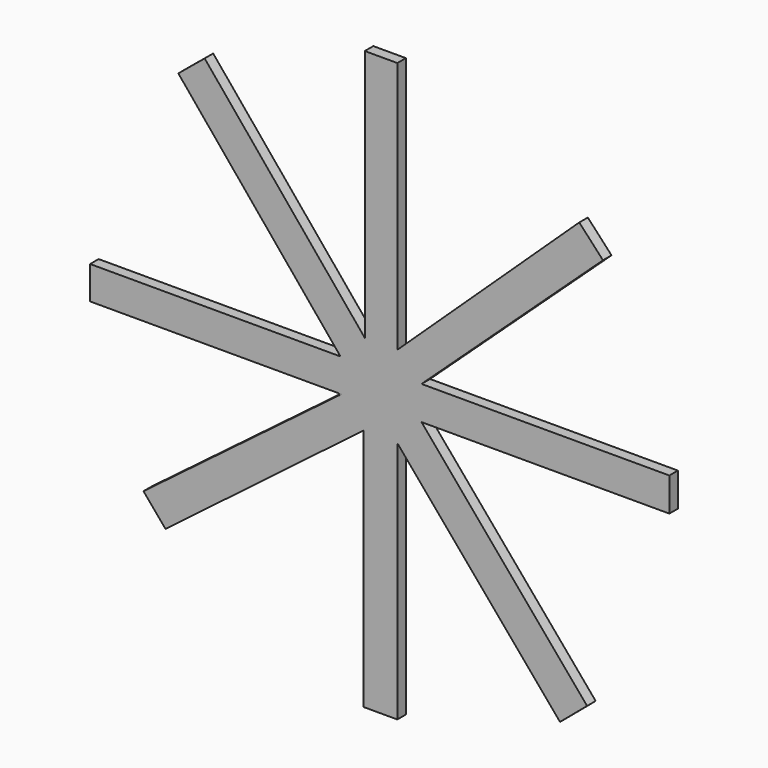
from build123d import *

# Parameters (mm, degrees)
F2_DEPTH = 2.54


with BuildPart() as f2:
    # F0 (on Front) → F2 (new body)
    with BuildSketch(Plane.XZ):
        Polygon((9.6088054153, 3.0054593734), (9.6088054153, 10.9656544158), (3.9800975212, 16.5943623099), (-3.9800975212, 16.5943623099), (-9.6088054153, 10.9656544158), (-9.6088054153, 3.0054593734), (-3.9800975212, -2.6232485207), (3.9800975212, -2.6232485207), align=None)
    extrude(amount=F2_DEPTH)


with BuildPart() as f2b:
    # F1 (on face) → F2, piece 2 (new body)
    with BuildSketch(Plane.XZ):
        Polygon((47.5419638027, 57.6224601616), (4.267366603, 16.8691836298), (4.267366603, 76.9153758883), (-3.471189877, 76.9153758883), (-3.471189877, 16.8691836298), (-41.5448844433, 62.9871338606), (-47.8097613253, 57.8150260868), (-9.2326552678, 11.0873029835), (-68.7846019864, 11.0873029835), (-68.7846019864, 3.2504596747), (-9.0429484844, 3.2504596747), (-56.093364954, -32.3439314961), (-50.8506766513, -38.5507576875), (-3.7807321642, -2.6303527411), (-3.7807321642, -60.5099275708), (4.2673670687, -60.5099275708), (4.2673670687, -2.6303527411), (42.9601445794, -48.4387874603), (49.403856578, -42.9960100279), (10.0268791084, 3.6224500028), (68.961687386, 3.6224500028), (68.961687386, 11.6074029356), (10.0268791084, 11.6074029356), (53.1750358641, 51.5350289643), align=None)
    extrude(amount=F2_DEPTH)


solid = Compound([f2.part, f2b.part])
